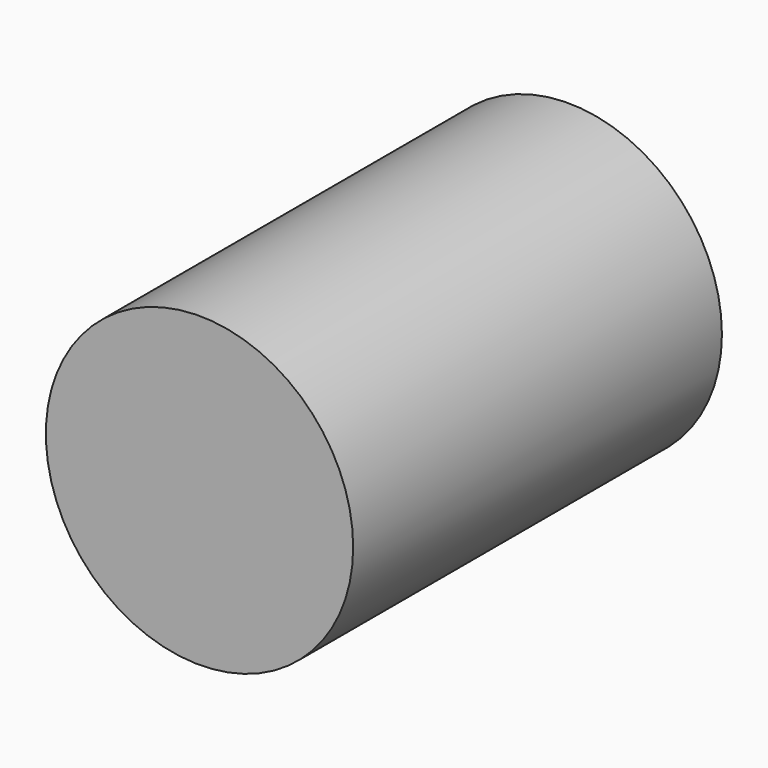
from build123d import *

# Parameters (mm, degrees)
F0_R     = 5
F0_R_2   = 1.5
F1_DEPTH = 15
F2_DEPTH = 10


with BuildPart() as f1:
    # F0 (on Front) → F1 (new body)
    with BuildSketch(Plane.XZ):
        Circle(F0_R)
        Circle(F0_R_2, mode=Mode.SUBTRACT)
        Circle(F0_R_2)
    extrude(amount=F1_DEPTH)

    # F0 (on Front) → F2 (cut)
    with BuildSketch(Plane.XZ):
        Circle(F0_R_2)
    extrude(amount=F2_DEPTH, mode=Mode.SUBTRACT)


solid = f1.part
